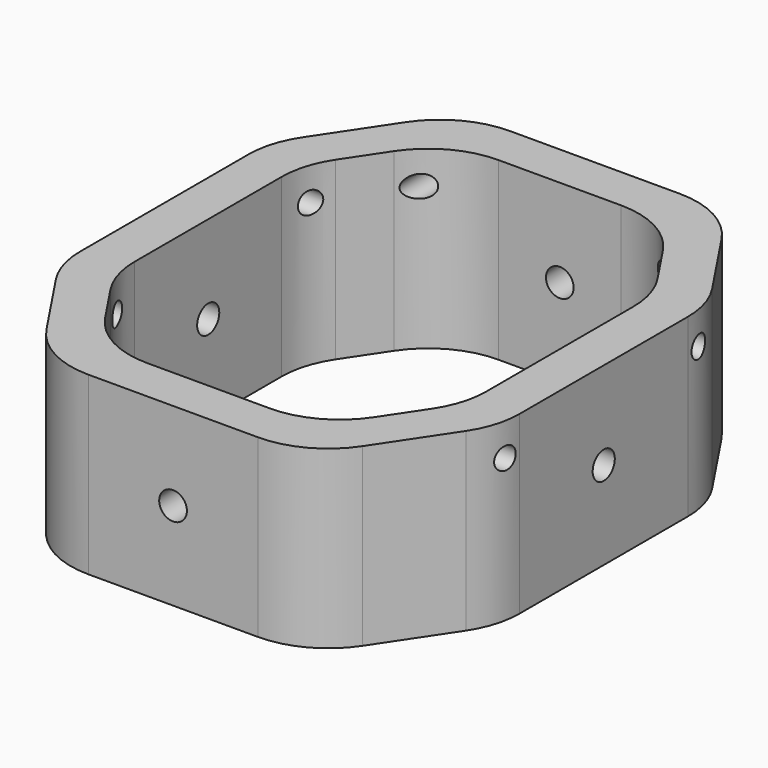
from build123d import *

# Parameters (mm, degrees)
F1_DEPTH  = 25.4
F2_R      = 2.00025
F3_DEPTH  = 39.6875
F4_R      = 2.00025
F5_DEPTH  = 41.275
F6_R      = 12.7
F7_R      = 1.5875
F8_DEPTH  = 25.4
F9_R      = 1.5875
F10_DEPTH = 38.1


with BuildPart() as f1:
    # F0 (on Top) → F1 (new body)
    with BuildSketch(Plane.XY):
        Polygon((31.75, 19.05), (19.05, 38.1), (-19.05, 38.1), (-31.75, 19.05), (-31.75, -19.05), (-19.05, -38.1), (19.05, -38.1), (31.75, -19.05), align=None)
        Polygon((-25.4, -17.1273747004), (-25.4, 17.1273747004), (-15.6515831336, 31.75), (15.6515831336, 31.75), (25.4, 17.1273747004), (25.4, -17.1273747004), (15.6515831336, -31.75), (-15.6515831336, -31.75), align=None, mode=Mode.SUBTRACT)
    extrude(amount=F1_DEPTH)

    # F2 (on Front) → F3 (cut, symmetric)
    with BuildSketch(Plane.XZ):
        with Locations((0, 12.7)):
            Circle(F2_R)
    extrude(amount=F3_DEPTH, both=True, mode=Mode.SUBTRACT)

    # F4 (on Right) → F5 (cut, symmetric)
    with BuildSketch(Plane.YZ):
        with Locations((0, 12.7)):
            Circle(F4_R)
    extrude(amount=F5_DEPTH, both=True, mode=Mode.SUBTRACT)

    # F6
    f6_edges = [f1.edges().sort_by_distance(p)[0] for p in [
        (-25.4, 17.127375, 12.7),
        (-15.651583, 31.75, 12.7),
        (15.651583, 31.75, 12.7),
        (25.4, 17.127375, 12.7),
        (25.4, -17.127375, 12.7),
        (15.651583, -31.75, 12.7),
        (-15.651583, -31.75, 12.7),
        (-25.4, -17.127375, 12.7),
        (-19.05, -38.1, 12.7),
        (-31.75, -19.05, 12.7),
        (19.05, -38.1, 12.7),
        (31.75, -19.05, 12.7),
        (31.75, 19.05, 12.7),
        (19.05, 38.1, 12.7),
        (-19.05, 38.1, 12.7),
        (-31.75, 19.05, 12.7),
    ]]
    fillet(f6_edges, radius=F6_R)

    # F7 (on face) → F8 (cut)
    with BuildSketch(Plane(origin=(0, 38.1, 0), x_dir=(-1, 0, 0), z_dir=(0, 1, 0))):
        with Locations((-17.4625, 20.6375)):
            Circle(F7_R)
        with Locations((17.4625, 20.6375)):
            Circle(F7_R)
    extrude(amount=-F8_DEPTH, mode=Mode.SUBTRACT)

    # F9 (on Right) → F10 (cut, symmetric)
    with BuildSketch(Plane.YZ):
        with Locations((-17.4625, 20.6375)):
            Circle(F9_R)
        with Locations((17.4625, 20.6375)):
            Circle(F9_R)
    extrude(amount=F10_DEPTH, both=True, mode=Mode.SUBTRACT)


solid = f1.part
